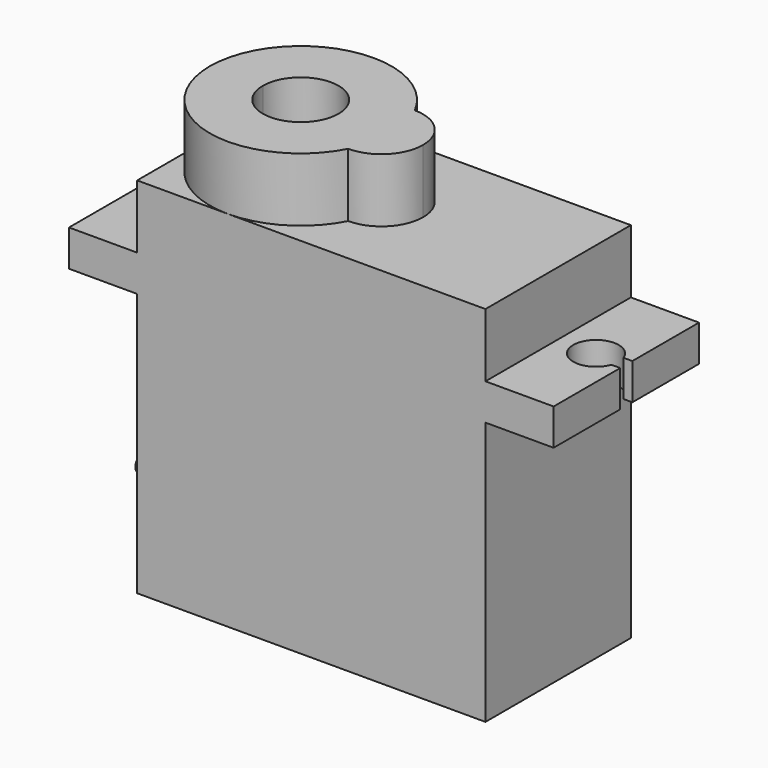
from build123d import *

# Parameters (mm, degrees)
PAD046_DEPTH         = 6
POCKET046_DEPTH      = 62.4829974073
POCKET046_DEPTH_BACK = 86.4829974073
PAD030_DEPTH         = 4.2
SKETCH056_W          = 5
SKETCH056_H          = 3.4
POCKET047_DEPTH      = 1.4
SKETCH057_R          = 0.55
PAD031_DEPTH         = 5


with BuildPart() as part:
    # Sketch089 → Pad046 (new body, symmetric)
    with BuildSketch(Plane.XZ):
        Polygon((-11.5, 0), (0, 0), (0, 24), (-11.5, 24), (-11.5, 19.8), (-16, 19.8), (-16, 17.4), (-11.5, 17.4), align=None)
    extrude(amount=PAD046_DEPTH, both=True)

    # Sketch054 → Pocket046 (cut, two sides)
    with BuildSketch(Plane.XY) as pocket046_sk:
        with BuildLine():
            ThreePointArc((-15.4142135624, -0.5), (-12.5, 0), (-15.4142135624, 0.5))
            Line((-15.4142135624, 0.5), (-19.4142135624, 0.5))
            Line((-19.4142135624, 0.5), (-19.4142135624, -0.5))
            Line((-19.4142135624, -0.5), (-15.4142135624, -0.5))
        make_face()
    extrude(amount=-POCKET046_DEPTH, mode=Mode.SUBTRACT)
    extrude(pocket046_sk.sketch, amount=POCKET046_DEPTH_BACK, mode=Mode.SUBTRACT)

    # Mirrored018: part across Sketch054 V_Axis


with BuildPart() as part_1:
    add(part.part)
    add(part.part.mirror(Plane(origin=(0, 0, 0), x_dir=(0, 0, 1), z_dir=(1, 0, 0))))

    # Sketch055 (on Face22 of Mirrored018) → Pad030 (join)
    with BuildSketch(Plane(origin=(-5.5, 0, 24), x_dir=(-1, 0, 0), z_dir=(0, 0, 1))):
        with BuildLine():
            ThreePointArc((6, 0), (1.41490397, 5.8307844031), (-5.3326822519, 2.75))
            ThreePointArc((-5.3326822519, 2.75), (-7.2772259002, 1.9445436483), (-8.0826822519, 0))
            Line((-8.0826822519, 0), (-2.5, 0))
            ThreePointArc((2.5, 0), (0, 2.5), (-2.5, 0))
            Line((2.5, 0), (6, 0))
        make_face()
    pad030 = extrude(amount=PAD030_DEPTH)

    # Mirrored019: Pad030 across Sketch055 H_Axis
    add(pad030.mirror(Plane(origin=(-5.5, 0, 24), x_dir=(0, 0, 1), z_dir=(0, -1, 0))))

    # Sketch056 (on Face3 of Mirrored019) → Pocket047 (cut)
    with BuildSketch(Plane(origin=(-11.5, 0, 0), x_dir=(0, 0, -1), z_dir=(-1, 0, 0))):
        with Locations((-2.5, 0)):
            Rectangle(SKETCH056_W, SKETCH056_H)
    extrude(amount=-POCKET047_DEPTH, mode=Mode.SUBTRACT)

    # Sketch057 (on Face28 of Pocket047) → Pad031 (join)
    with BuildSketch(Plane(origin=(-10.1, 0, 0), x_dir=(0, 0, -1), z_dir=(-1, 0, 0))):
        with Locations((-4.4, 1.1)):
            Circle(SKETCH057_R)
        with Locations((-4.4, 0)):
            Circle(SKETCH057_R)
        with Locations((-4.4, -1.1)):
            Circle(SKETCH057_R)
    extrude(amount=PAD031_DEPTH)


with BuildPart() as part_2:
    # Body031 placement: moved
    add(part_1.part.moved(Location((5.5, 0, -24))))


solid = part_2.part
